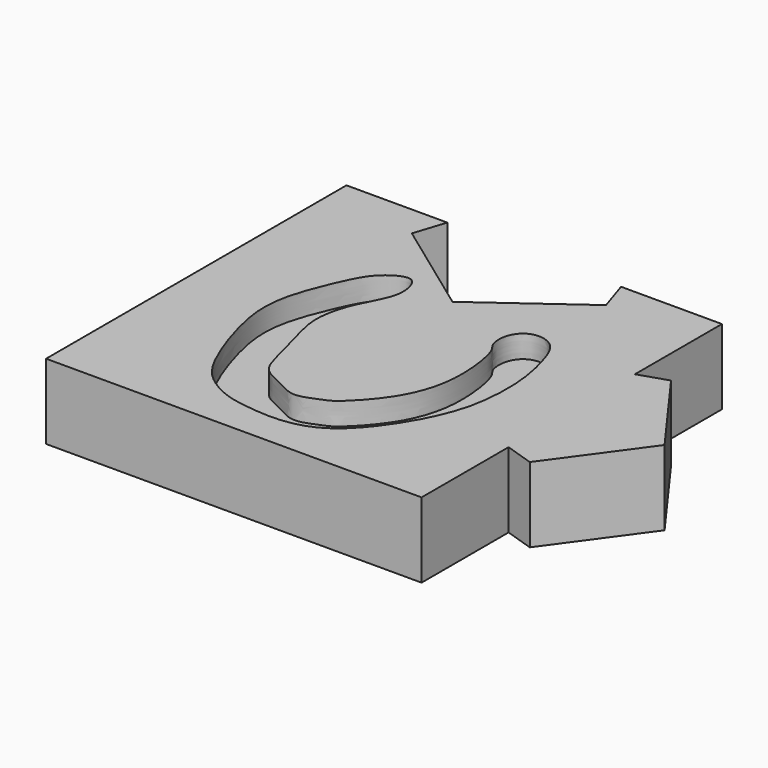
from build123d import *

# Parameters (mm, degrees)
F1_DEPTH = 10
F3_DEPTH = 3


with BuildPart() as f1:
    # F0 (on Top) → F1 (new body)
    with BuildSketch(Plane.XY):
        Polygon((-25, -25), (25, -25), (25, -10.5146222424), (15, -7.2654252801), (15, 7.2654252801), (25, 10.5146222424), (25, 25), (11.5660844666, 25), (12.9312755504, 20.7983738762), (0, 11.4032522475), (-12.9312755504, 20.7983738762), (-11.5660844666, 25), (-25, 25), align=None)
        Polygon((25, 10.5146222424), (25, -10.5146222424), (28.8196601125, -11.7557050458), (37.360679775, 0), (28.8196601125, 11.7557050458), align=None)
        Polygon((15, -7.2654252801), (25, -10.5146222424), (25, 10.5146222424), (15, 7.2654252801), align=None)
    extrude(amount=F1_DEPTH)

    # F2 (on face) → F3 (cut)
    with BuildSketch(Plane.XY.offset(10)):
        with BuildLine():
            add(Edge.make_bspline(
                [(0, -15.1630733162), (-0.8989850404, -15.0808606392), (-2.6643250006, -13.9406256673), (-5.4406618286, -12.8858138503), (-6.442194032, -10.4009853792), (-7.5399269939, -5.4717664902), (-9.0967917274, -0.847753307), (-7.8801693926, 4.3213288605), (-5.4599611036, 8.2122659563), (-5.3379512972, 10.8351826511), (-6.4213267461, 13.4716901593), (-10.0257250835, 11.4593644619), (-11.8218365591, 8.0777054681), (-14.5749972878, 1.4743405308), (-14.7000887421, -4.2509291155), (-12.3943664514, -11.614397867), (-10.4362214559, -15.7510647645), (-8.5760315461, -17.9061588939), (-5.3033780373, -19.8684167706), (-1.4022499594, -20.4940428799), (3.0635129736, -20.7960779215), (7.7825851346, -19.4022908121), (11.735896786, -15.1549051897), (14.8345733953, -9.9335317778), (16.5787420103, -4.8176976125), (16.8394489535, 1.8135336799), (15.7613550981, 6.6881552492), (14.4148041414, 10.3396443384), (11.8800698082, 11.2272303249), (9.9288073216, 10.5005128495), (8.9322486917, 8.6319527915), (9.108217462, 6.4191678334), (10.3700442398, 5.3993034182), (11.3395611468, -1.2018795563), (10.1624039424, -6.3991410513), (7.9927280706, -10.0989991723), (5.2761827662, -13.0216060149), (4.0271168339, -13.9673793536), (2.3371984846, -14.6224289345), (0.8157485479, -15.2376739701), (0, -15.1630733162)],
                knots=[0, 0, 0, 0, 0.0230916095, 0.0456942616, 0.0668382575, 0.0970526023, 0.1269388911, 0.1575402431, 0.1861232591, 0.2077845509, 0.2270476836, 0.2508861005, 0.2779996266, 0.313414403, 0.3460271728, 0.3832898407, 0.4119166473, 0.4341093865, 0.4598390436, 0.486653524, 0.5149814266, 0.5442002949, 0.5763081534, 0.6093813072, 0.6407153019, 0.6751369364, 0.7056383061, 0.7312529552, 0.7517942671, 0.7702544268, 0.7893654158, 0.8083185095, 0.8246648257, 0.8584701834, 0.8902288415, 0.9181618566, 0.9446262727, 0.9611886938, 0.979046429, 1, 1, 1, 1], degree=3))
        make_face()
    extrude(amount=-F3_DEPTH, mode=Mode.SUBTRACT)


solid = f1.part
